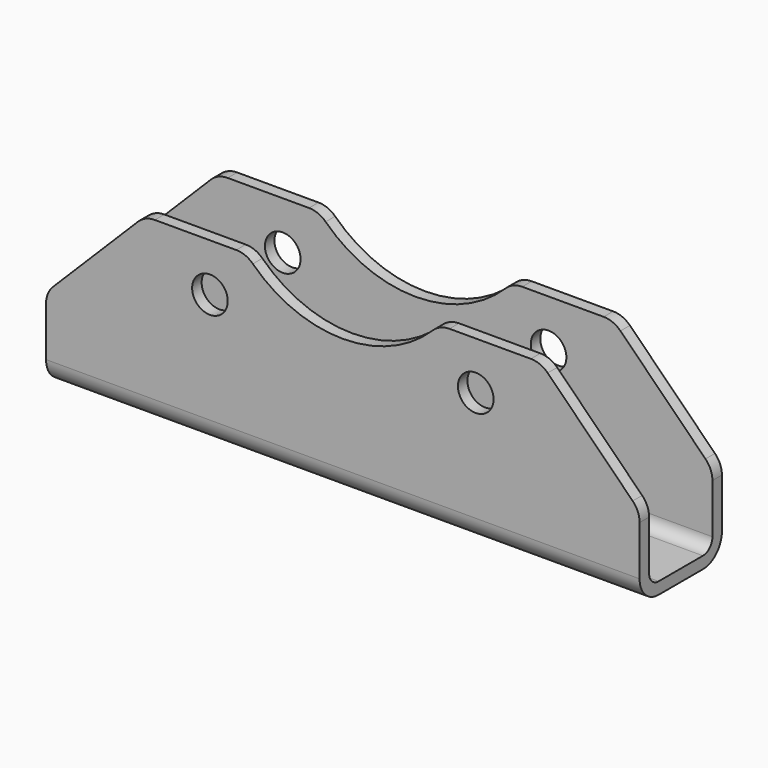
from build123d import *

# Parameters (mm, degrees)
F1_DEPTH = 150
F2_R     = 32.5
F2_R_2   = 4.5
F3_DEPTH = 50
F4_R     = 5.5
F5_DEPTH = 25
F6_SIZE  = 25
F7_R     = 6
F8_DEPTH = 25
F9_R     = 3


with BuildPart() as f1:
    # F0 (on Right) → F1 (new body)
    with BuildSketch(Plane.YZ):
        Polygon((-13, -23), (13, -23), (13, 23), (10, 23), (10, -20), (-10, -20), (-10, 23), (-13, 23), align=None)
    extrude(amount=F1_DEPTH)

    # F2 (on face) → F3 (cut)
    with BuildSketch(Plane.XZ.offset(13)):
        with Locations((75, 44.5)):
            Circle(F2_R)
        with Locations((108.5875721064, 10.9124278936)):
            Circle(F2_R_2)
        with Locations((41.4124278936, 10.9124278936)):
            Circle(F2_R_2)
    extrude(amount=-F3_DEPTH, mode=Mode.SUBTRACT)

    # F4 (on face) → F5 (cut)
    with BuildSketch(Plane.XY.offset(-20)):
        with Locations((20, 0)):
            Circle(F4_R)
        with Locations((130, 0)):
            Circle(F4_R)
    extrude(amount=-F5_DEPTH, mode=Mode.SUBTRACT)

    # F6
    f6_edges = [f1.edges().sort_by_distance(p)[0] for p in [
        (0, 11.5, 23),
        (0, -11.5, 23),
        (150, -11.5, 23),
        (150, 11.5, 23),
    ]]
    chamfer(f6_edges, length=F6_SIZE)

    # F7
    f7_edges = [f1.edges().sort_by_distance(p)[0] for p in [
        (0, -11.5, -2),
        (0, 11.5, -2),
        (25, 11.5, 23),
        (25, -11.5, 23),
        (99.372115, -11.5, 23),
        (50.627885, -11.5, 23),
        (50.627885, 11.5, 23),
        (99.372115, 11.5, 23),
        (125, -11.5, 23),
        (125, 11.5, 23),
        (150, 11.5, -2),
        (150, -11.5, -2),
        (75, -13, -23),
        (75, 13, -23),
    ]]
    fillet(f7_edges, radius=F7_R)

    # F2 (on face) → F8 (cut)
    with BuildSketch(Plane.XZ.offset(13)):
        with Locations((75, 44.5)):
            Circle(F2_R)
        with Locations((108.5875721064, 10.9124278936)):
            Circle(F2_R_2)
        with Locations((41.4124278936, 10.9124278936)):
            Circle(F2_R_2)
    extrude(amount=-F8_DEPTH, mode=Mode.SUBTRACT)

    # F9
    f9_edges = [f1.edges().sort_by_distance(p)[0] for p in [
        (75, 10, -20),
        (75, -10, -20),
    ]]
    fillet(f9_edges, radius=F9_R)


solid = f1.part
